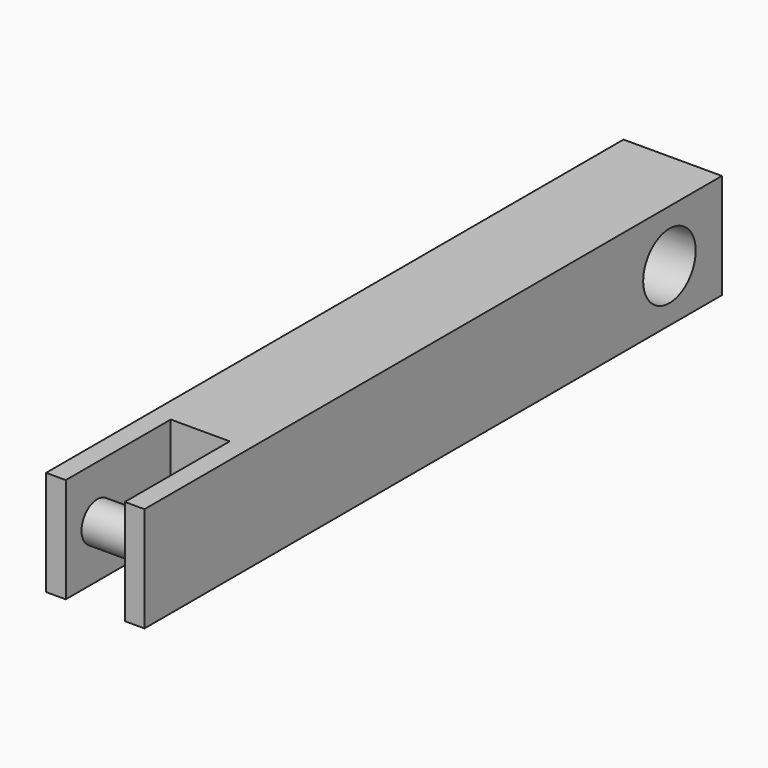
from build123d import *

# Parameters (mm, degrees)
SKETCH_W     = 150
SKETCH_H     = 160
PAD_DEPTH    = 900
SKETCH001_R  = 50
HOLE_DEPTH   = 150
HOLE_TIPS_R  = 50
SKETCH002_W  = 30
SKETCH002_H  = 160
PAD001_DEPTH = 200
SKETCH003_R  = 30
PAD002_DEPTH = 150


with BuildPart() as part:
    # Sketch → Pad (new body)
    with BuildSketch(Plane.XZ):
        Rectangle(SKETCH_W, SKETCH_H)
    extrude(amount=PAD_DEPTH)

    # Sketch001 (on Face3 of Pad) → Hole (cut)
    with BuildSketch(Plane(origin=(75, 0, 0), x_dir=(0, 0, 1), z_dir=(1, 0, 0))):
        with Locations((0, 100)):
            Circle(SKETCH001_R)
    extrude(amount=-HOLE_DEPTH, mode=Mode.SUBTRACT)

    # Hole tips → Hole tip 1 section 0
    with BuildSketch(Plane(origin=(-75, 0, 0), x_dir=(0, 0, 1), z_dir=(1, 0, 0)), mode=Mode.PRIVATE) as hole_tip_1_s0:
        with Locations((0, 100)):
            Circle(HOLE_TIPS_R)
    loft([hole_tip_1_s0.sketch, Vertex(-105.043031, -100, 0)], mode=Mode.SUBTRACT)

    # Sketch002 (on Face4 of Hole) → Pad001 (join)
    with BuildSketch(Plane.XZ.offset(900)):
        with Locations((-60, 0)):
            Rectangle(SKETCH002_W, SKETCH002_H)
        with Locations((60, 0)):
            Rectangle(SKETCH002_W, SKETCH002_H)
    extrude(amount=PAD001_DEPTH)

    # Sketch003 (on Face11 of Pad001) → Pad002 (join)
    with BuildSketch(Plane(origin=(75, 0, 0), x_dir=(0, 0, 1), z_dir=(1, 0, 0))):
        with Locations((0, 1040)):
            Circle(SKETCH003_R)
    extrude(amount=-PAD002_DEPTH)


solid = part.part
